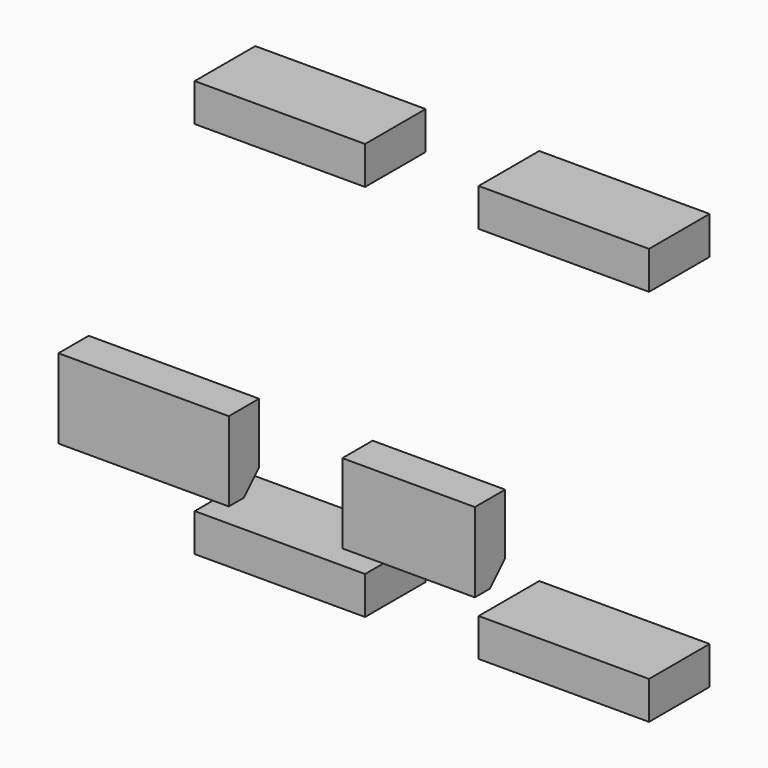
from build123d import *

# Parameters (mm, degrees)
BOX008_W        = 7
BOX008_H        = 2
BOX008_DEPTH    = 4.2
CHAMFER_SIZE    = 1
BOX006_W        = 9
BOX006_H        = 4
BOX006_DEPTH    = 2
BOX005_W        = 9
BOX005_H        = 4
BOX005_DEPTH    = 2
BOX004_W        = 9
BOX004_H        = 4
BOX004_DEPTH    = 2
BOX003_W        = 9
BOX003_H        = 4
BOX003_DEPTH    = 2
BOX007_W        = 9
BOX007_H        = 2
BOX007_DEPTH    = 4.2
CHAMFER001_SIZE = 1


with BuildPart() as chamfer_body:
    # Box008 → Box008 (new body)
    with BuildSketch(Plane(origin=(-5.93, 5.39, 24), x_dir=(1, 0, 0), z_dir=(0, 0, 1))):
        with Locations((3.5, 1)):
            Rectangle(BOX008_W, BOX008_H)
    extrude(amount=BOX008_DEPTH)

    # Chamfer
    chamfer_edges = [chamfer_body.edges().sort_by_distance(p)[0] for p in [
        (-2.43, 7.39, 24),
    ]]
    chamfer(chamfer_edges, length=CHAMFER_SIZE)


with BuildPart() as cube006:
    # Box006 → Box006 (new body)
    with BuildSketch(Plane(origin=(-20.93, 14.39, 35.2), x_dir=(1, 0, 0), z_dir=(0, 0, 1))):
        with Locations((4.5, 2)):
            Rectangle(BOX006_W, BOX006_H)
    extrude(amount=BOX006_DEPTH)


with BuildPart() as cube005:
    # Box005 → Box005 (new body)
    with BuildSketch(Plane(origin=(-5.93, 14.39, 35.2), x_dir=(1, 0, 0), z_dir=(0, 0, 1))):
        with Locations((4.5, 2)):
            Rectangle(BOX005_W, BOX005_H)
    extrude(amount=BOX005_DEPTH)


with BuildPart() as cube004:
    # Box004 → Box004 (new body)
    with BuildSketch(Plane(origin=(-5.93, 14.39, 15.2), x_dir=(1, 0, 0), z_dir=(0, 0, 1))):
        with Locations((4.5, 2)):
            Rectangle(BOX004_W, BOX004_H)
    extrude(amount=BOX004_DEPTH)


with BuildPart() as cube003:
    # Box003 → Box003 (new body)
    with BuildSketch(Plane(origin=(-20.93, 14.39, 15.2), x_dir=(1, 0, 0), z_dir=(0, 0, 1))):
        with Locations((4.5, 2)):
            Rectangle(BOX003_W, BOX003_H)
    extrude(amount=BOX003_DEPTH)


with BuildPart() as fusion:
    # Box007 → Box007 (new body)
    with BuildSketch(Plane(origin=(-20.93, 5.39, 24), x_dir=(1, 0, 0), z_dir=(0, 0, 1))):
        with Locations((4.5, 1)):
            Rectangle(BOX007_W, BOX007_H)
    extrude(amount=BOX007_DEPTH)

    # Chamfer001
    chamfer001_edges = [fusion.edges().sort_by_distance(p)[0] for p in [
        (-16.43, 7.39, 24),
    ]]
    chamfer(chamfer001_edges, length=CHAMFER001_SIZE)

    # Fusion: union Chamfer body, Cube006, Cube005, Cube004, Cube003
    add(chamfer_body.part)
    add(cube006.part)
    add(cube005.part)
    add(cube004.part)
    add(cube003.part)


solid = fusion.part
